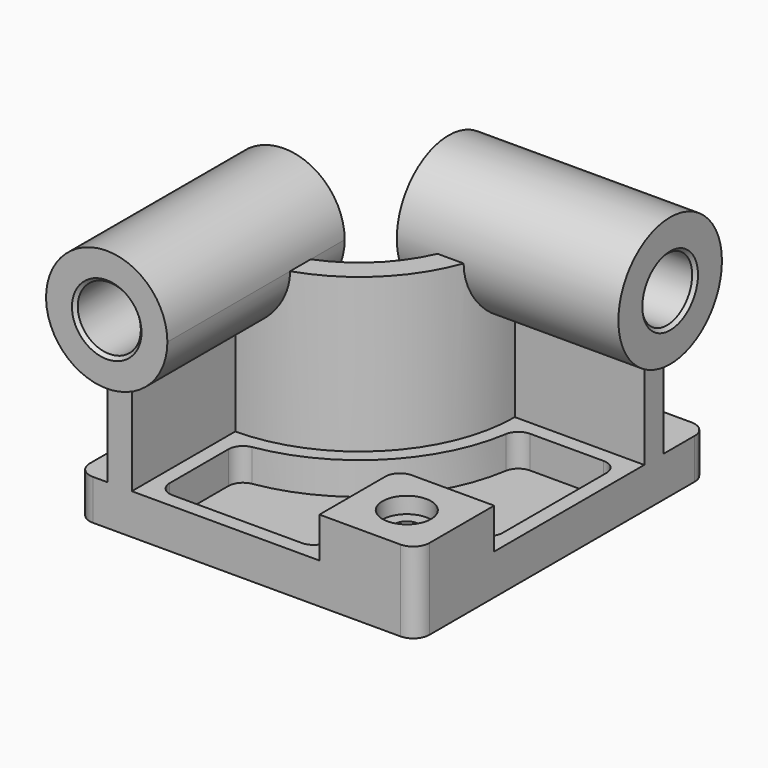
from build123d import *

# Parameters (mm, degrees)
F0_W            = 210
F0_H            = 225
F1_DEPTH        = 25
F3_DEPTH        = 95
F5_DEPTH        = 10
F5_DEPTH_BACK   = 127
F7_DEPTH        = 10
F7_DEPTH_BACK   = 127
F8_W            = 60
F8_H            = 60
F9_DEPTH        = 25
F10_R           = 9
F12_DEPTH       = 20
F14_D           = 15
F14_CBORE_D     = 30
F14_CBORE_DEPTH = 10
F15_R           = 9
F16_R           = 19.5
F17_DEPTH       = 235.001
F18_R           = 19.5
F19_DEPTH       = 231.0010001
F20_SIZE        = 2
F21_R           = 10


with BuildPart() as f1:
    # F0 (on Top) → F1 (new body)
    with BuildSketch(Plane.XY):
        Rectangle(F0_W, F0_H)
    extrude(amount=F1_DEPTH)

    # F2 (on face) → F3 (join)
    with BuildSketch(Plane.XY.offset(25)):
        with BuildLine():
            Line((-86, -112.5), (-71, -112.5))
            Line((-71, -112.5), (-71, -32.5))
            ThreePointArc((-71, -32.5), (-3.1177490061, -4.3822509939), (25, 63.5))
            Line((25, 63.5), (105, 63.5))
            Line((105, 63.5), (105, 78.5))
            Line((105, 78.5), (8.5989949685, 78.5))
            ThreePointArc((8.5989949685, 78.5), (-13.7243507239, 6.2243507239), (-86, -16.0989949685))
            Line((-86, -16.0989949685), (-86, -112.5))
        make_face()
    extrude(amount=F3_DEPTH)

    # F4 (on face) → F5 (join, two sides)
    with BuildSketch(Plane.XZ.offset(112.5)) as f5_sk:
        with BuildLine():
            Line((-86, 120), (-86, 83.2576538583))
            ThreePointArc((-86, 83.2576538583), (-78.5, 82.5), (-71, 83.2576538583))
            Line((-71, 83.2576538583), (-71, 120))
            Line((-71, 120), (-86, 120))
        make_face()
        with BuildLine():
            ThreePointArc((-71, 83.2576538583), (-49.4526249034, 96.2829175487), (-41, 120))
            ThreePointArc((-41, 120), (-102.2170824513, 149.0473750966), (-86, 83.2576538583))
            Line((-86, 83.2576538583), (-86, 120))
            Line((-86, 120), (-71, 120))
            Line((-71, 120), (-71, 83.2576538583))
        make_face()
    extrude(amount=F5_DEPTH)
    extrude(f5_sk.sketch, amount=-F5_DEPTH_BACK)

    # F6 (on face) → F7 (join, two sides)
    with BuildSketch(Plane.YZ.offset(105)) as f7_sk:
        with BuildLine():
            Line((63.5, 120), (63.5, 80.7094158862))
            ThreePointArc((63.5, 80.7094158862), (71, 80), (78.5, 80.7094158862))
            Line((78.5, 80.7094158862), (78.5, 120))
            Line((78.5, 120), (63.5, 120))
        make_face()
        with BuildLine():
            ThreePointArc((78.5, 80.7094158862), (101.8220700148, 94.504902432), (111, 120))
            ThreePointArc((111, 120), (45.504902432, 150.8220700148), (63.5, 80.7094158862))
            Line((63.5, 80.7094158862), (63.5, 120))
            Line((63.5, 120), (78.5, 120))
            Line((78.5, 120), (78.5, 80.7094158862))
        make_face()
    extrude(amount=F7_DEPTH)
    extrude(f7_sk.sketch, amount=-F7_DEPTH_BACK)

    # F8 (on face) → F9 (join)
    with BuildSketch(Plane.XY.offset(25)):
        with Locations((75, -82.5)):
            Rectangle(F8_W, F8_H)
    extrude(amount=F9_DEPTH)

    # F10
    f10_edges = [f1.edges().sort_by_distance(p)[0] for p in [
        (45, -52.5, 37.5),
    ]]
    fillet(f10_edges, radius=F10_R)

    # F11 (on face) → F12 (cut)
    with BuildSketch(Plane.XY.offset(25)):
        with BuildLine():
            ThreePointArc((33.613574645, 54.5), (3.2462120246, -10.7462120246), (-62, -41.113574645))
            Line((-62, -41.113574645), (-62, -103.5))
            Line((-62, -103.5), (36, -103.5))
            Line((36, -103.5), (36, -61.5))
            ThreePointArc((36, -61.5), (41.2720779386, -48.7720779386), (54, -43.5))
            Line((54, -43.5), (96, -43.5))
            Line((96, -43.5), (96, 54.5))
            Line((96, 54.5), (33.613574645, 54.5))
        make_face()
    extrude(amount=-F12_DEPTH, mode=Mode.SUBTRACT)

    # F14 (through all)
    with Locations(Plane.XY.offset(50)):
        with Locations((75, -82.5)):
            CounterBoreHole(F14_D / 2, F14_CBORE_D / 2, F14_CBORE_DEPTH)

    # F15
    f15_edges = [f1.edges().sort_by_distance(p)[0] for p in [
        (33.613575, 54.5, 15),
        (96, 54.5, 15),
        (-62, -41.113575, 15),
        (-62, -103.5, 15),
        (36, -103.5, 15),
        (96, -43.5, 15),
    ]]
    fillet(f15_edges, radius=F15_R)

    # F16 (on face) → F17 (cut, through all)
    with BuildSketch(Plane.XZ.offset(122.5)):
        with Locations((-78.5, 120)):
            Circle(F16_R)
    extrude(amount=-F17_DEPTH, mode=Mode.SUBTRACT)

    # F18 (on face) → F19 (cut, through all)
    with BuildSketch(Plane.YZ.offset(115)):
        with Locations((71, 120)):
            Circle(F18_R)
    extrude(amount=-F19_DEPTH, mode=Mode.SUBTRACT)

    # F20
    f20_edges = [f1.edges().sort_by_distance(p)[0] for p in [
        (-98, -122.5, 120),
        (115, 51.5, 120),
        (-22, 51.5, 120),
        (-98, 14.5, 120),
    ]]
    chamfer(f20_edges, length=F20_SIZE)

    # F21
    f21_edges = [f1.edges().sort_by_distance(p)[0] for p in [
        (105, -112.5, 25),
        (105, 112.5, 12.5),
        (-105, -112.5, 12.5),
        (-105, 112.5, 12.5),
    ]]
    fillet(f21_edges, radius=F21_R)


solid = f1.part
